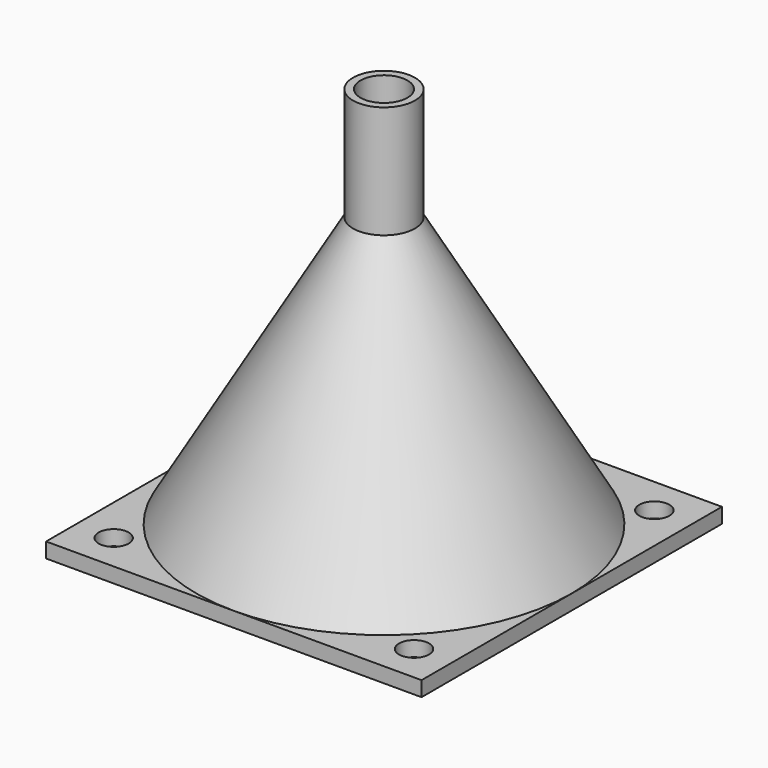
from build123d import *

# Parameters (mm, degrees)
F0_W     = 50
F0_H     = 50
F1_DEPTH = 2
F2_R     = 24
F3_DEPTH = 25
F5_R     = 2
F6_DEPTH = 2.001


with BuildPart() as f1:
    # F0 (on Top) → F1 (new body)
    with BuildSketch(Plane.XY):
        Rectangle(F0_W, F0_H)
    extrude(amount=F1_DEPTH)

    # F2 (on face) → F3 (cut)
    with BuildSketch(Plane(origin=(0, 0, 0), x_dir=(1, 0, 0), z_dir=(0, 0, -1))):
        Circle(F2_R)
    extrude(amount=-F3_DEPTH, mode=Mode.SUBTRACT)

    # F5 (on face) → F6 (cut, through all)
    with BuildSketch(Plane(origin=(0, 0, 0), x_dir=(1, 0, 0), z_dir=(0, 0, -1))):
        with Locations((-20, 20)):
            Circle(F5_R)
        with Locations((20, 20)):
            Circle(F5_R)
        with Locations((20, -20)):
            Circle(F5_R)
        with Locations((-20, -20)):
            Circle(F5_R)
    extrude(amount=-F6_DEPTH, mode=Mode.SUBTRACT)

    # F4 (on Front) → F7 (revolve)
    with BuildSketch(Plane.XZ):
        Polygon((3.125, 38), (24, 2), (25, 2), (4.125, 38), (4.125, 53), (3.125, 53), align=None)
    revolve(axis=Axis((0, 0, 20), (0, 0, 1)))


solid = f1.part
